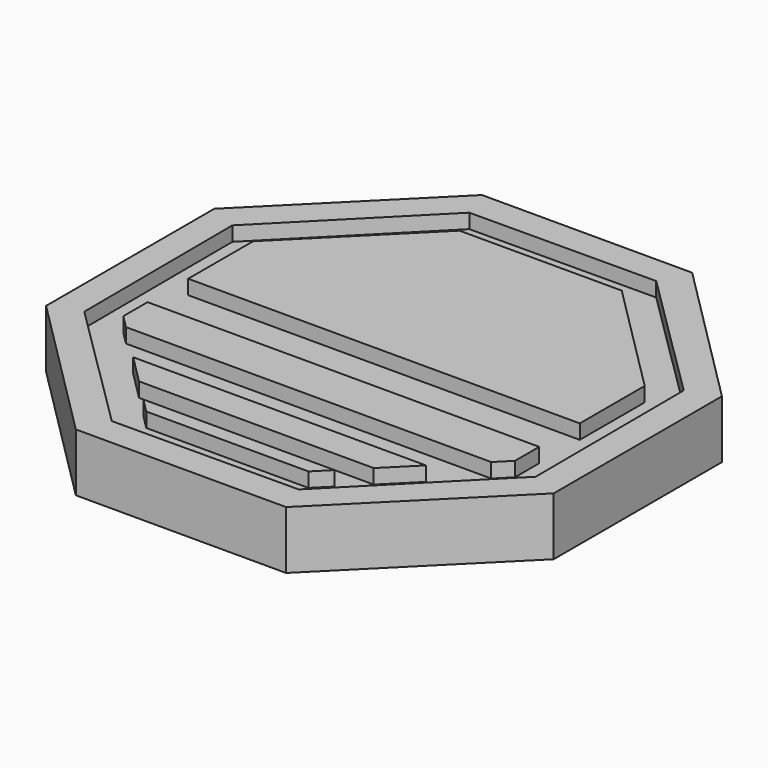
from build123d import *

# Parameters (mm, degrees)
F1_DEPTH = 2
F2_DEPTH = 1.5


with BuildPart() as f1:
    # F0 (on Top) → F1 (new body)
    with BuildSketch(Plane.XY):
        Polygon((3.624369, -8.75), (8.75, -3.624369), (8.75, 3.624369), (3.624369, 8.75), (-3.624369, 8.75), (-8.75, 3.624369), (-8.75, -3.624369), (-3.624369, -8.75), align=None)
        Polygon((7.734257, 3.247901), (7.765558, -3.172333), (3.247901, -7.734257), (-3.172333, -7.765558), (-7.734257, -3.247901), (-7.765558, 3.172333), (-3.247901, 7.734257), (3.172333, 7.765558), align=None, mode=Mode.SUBTRACT)
        Polygon((-2.795942, 6.75), (-6.75, 2.795942), (-6.75, 0), (6.75, 0), (6.75, 2.795942), (2.795942, 6.75), align=None)
        Polygon((6.295942, -3.25), (6.75, -2.795942), (6.75, -1.75), (-6.75, -1.75), (-6.75, -2.795942), (-6.295942, -3.25), align=None)
        Polygon((5.045942, -4.5), (-5.045942, -4.5), (-4.045942, -5.5), (4.045942, -5.5), align=None)
        Polygon((-2.795942, -6.75), (2.795942, -6.75), (3.295942, -6.25), (-3.295942, -6.25), align=None)
    extrude(amount=F1_DEPTH)


with BuildPart() as f2:
    # F0 (on Top) → F2 (new body)
    with BuildSketch(Plane.XY):
        Polygon((3.247901, -7.734257), (7.765558, -3.172333), (7.734257, 3.247901), (3.172333, 7.765558), (-3.247901, 7.734257), (-7.765558, 3.172333), (-7.734257, -3.247901), (-3.172333, -7.765558), align=None)
        Polygon((3.295942, -6.25), (2.795942, -6.75), (-2.795942, -6.75), (-3.295942, -6.25), align=None, mode=Mode.SUBTRACT)
        Polygon((-4.045942, -5.5), (-5.045942, -4.5), (5.045942, -4.5), (4.045942, -5.5), align=None, mode=Mode.SUBTRACT)
        Polygon((6.75, -1.75), (6.75, -2.795942), (6.295942, -3.25), (-6.295942, -3.25), (-6.75, -2.795942), (-6.75, -1.75), align=None, mode=Mode.SUBTRACT)
        Polygon((-6.75, 0), (-6.75, 2.795942), (-2.795942, 6.75), (2.795942, 6.75), (6.75, 2.795942), (6.75, 0), align=None, mode=Mode.SUBTRACT)
    extrude(amount=F2_DEPTH)


solid = Compound([f1.part, f2.part])
